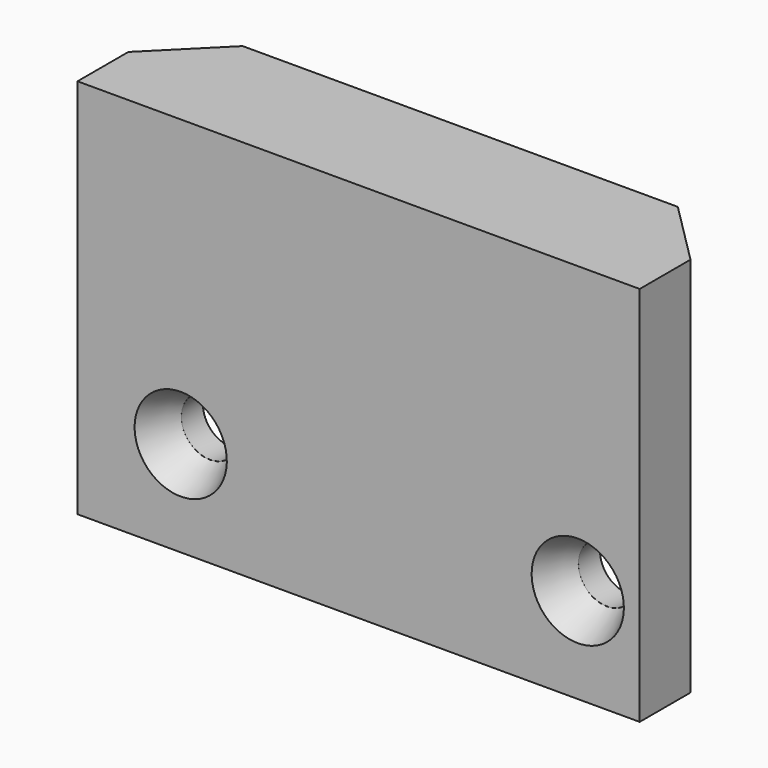
from build123d import *

# Parameters (mm, degrees)
BOX054_W                = 35.4
BOX054_H                = 8
BOX054_DEPTH            = 10
CHAMFER005_SIZE         = 4
CYLINDER109_R           = 1.8
CYLINDER109_DEPTH       = 10
BODY054_PLACEMENT_ANGLE = 90
ARRAY001047_Y_COUNT     = 2
ARRAY001047_Y_PITCH     = 25
ARRAY001047_Z_COUNT     = 3
ARRAY001047_Z_PITCH     = 20
BODY055_PLACEMENT_ANGLE = 90
BOX053_W                = 35.4
BOX053_H                = 4
BOX053_DEPTH            = 24


with BuildPart() as chamfer005:
    # Box054 → Box054 (new body)
    with BuildSketch(Plane(origin=(-17.7, -21.8, 0), x_dir=(1, 0, 0), z_dir=(0, 0, 1))):
        with Locations((17.7, 4)):
            Rectangle(BOX054_W, BOX054_H)
    extrude(amount=BOX054_DEPTH)

    # Chamfer005
    chamfer005_edges = [chamfer005.edges().sort_by_distance(p)[0] for p in [
        (-17.7, -13.8, 5),
        (17.7, -13.8, 5),
    ]]
    chamfer(chamfer005_edges, length=CHAMFER005_SIZE)


with BuildPart() as cone:
    # Cone → Cone (revolve)
    with BuildSketch(Plane(origin=(0, 0, 7.5), x_dir=(1, 0, 0), z_dir=(0, -1, 0))):
        Polygon((0, 0), (1.8, 0), (3, 2.5), (0, 2.5), align=None)
    revolve(axis=Axis((0, 0, 7.5), (0, 0, 1)))


with BuildPart() as top_screw_hole_array_clone:
    # Cylinder109 → Cylinder109 (new body)
    with BuildSketch(Plane.XY):
        Circle(CYLINDER109_R)
    extrude(amount=CYLINDER109_DEPTH)

    # Fusion085: union Cone
    add(cone.part)


with BuildPart() as top_screw_hole_array_clone_1:
    # Body054 placement: moved
    add(top_screw_hole_array_clone.part.rotate(Axis((0, 0, 0), (0, -1, 0)), BODY054_PLACEMENT_ANGLE))

    # Array001047 Y: top screw hole array clone ×2


with BuildPart() as top_screw_hole_array_clone_2:
    add(top_screw_hole_array_clone_1.part)
    with Locations(*[(0, i * ARRAY001047_Y_PITCH, 0) for i in range(1, ARRAY001047_Y_COUNT)]):
        add(top_screw_hole_array_clone_1.part)

    # Array001047 Z: top screw hole array clone ×3


with BuildPart() as top_screw_hole_array_clone_3:
    add(top_screw_hole_array_clone_2.part)
    with Locations(*[(0, 0, i * ARRAY001047_Z_PITCH) for i in range(1, ARRAY001047_Z_COUNT)]):
        add(top_screw_hole_array_clone_2.part)


with BuildPart() as top_screw_hole_array_clone_4:
    # Array001047 placement: moved
    add(top_screw_hole_array_clone_3.part.moved(Location((0, 4, 35))))


with BuildPart() as top_screw_hole_array_clone_5:
    # Body055 placement: moved
    add(top_screw_hole_array_clone_4.part.moved(Location((17.8, -12, -83))).rotate(Axis((17.8, -12, -83), (0, 0, 1)), BODY055_PLACEMENT_ANGLE))


with BuildPart() as fusion084:
    # Box053 → Box053 (new body)
    with BuildSketch(Plane(origin=(-17.7, -21.8, -14), x_dir=(1, 0, 0), z_dir=(0, 0, 1))):
        with Locations((17.7, 2)):
            Rectangle(BOX053_W, BOX053_H)
    extrude(amount=BOX053_DEPTH)

    # Cut023020: cut top screw hole array clone
    add(top_screw_hole_array_clone_5.part, mode=Mode.SUBTRACT)

    # Fusion084: union Chamfer005
    add(chamfer005.part)


solid = fusion084.part
